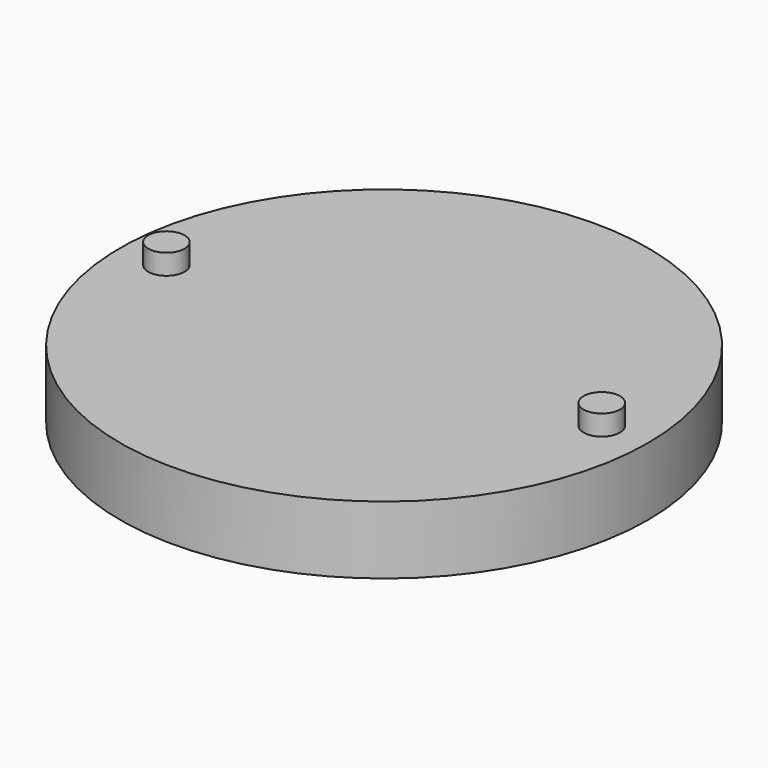
from build123d import *

# Parameters (mm, degrees)
F0_R     = 49.474341
F1_DEPTH = 12.7
F2_R     = 3.408507
F3_DEPTH = 3.81


with BuildPart() as f1:
    # F0 (on Top) → F1 (new body)
    with BuildSketch(Plane.XY):
        Circle(F0_R)
    extrude(amount=-F1_DEPTH)


with BuildPart() as f3:
    # F2 (on Top) → F3 (new body)
    with BuildSketch(Plane.XY):
        with Locations((40.798753, 0)):
            Circle(F2_R)
        with Locations((-40.798753, 0)):
            Circle(F2_R)
    extrude(amount=F3_DEPTH)


solid = Compound([f1.part, f3.part])
